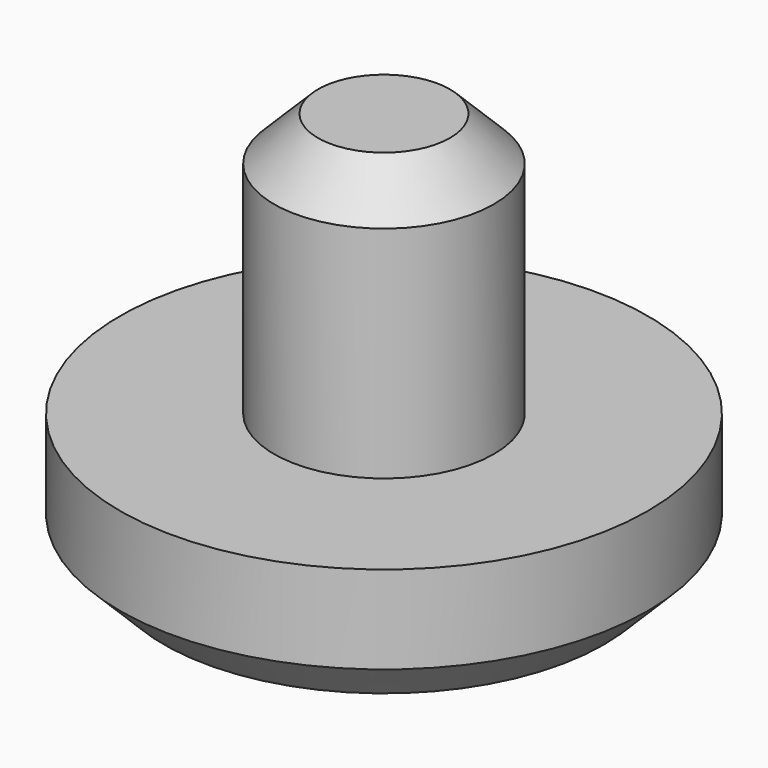
from build123d import *

# Parameters (mm, degrees)
F0_R     = 6
F0_R_2   = 2.5
F1_DEPTH = 3
F2_DEPTH = 6
F3_SIZE  = 1


with BuildPart() as f1:
    # F0 (on Top) → F1 (new body)
    with BuildSketch(Plane.XY):
        Circle(F0_R)
        Circle(F0_R_2, mode=Mode.SUBTRACT)
        Circle(F0_R_2)
    extrude(amount=-F1_DEPTH)

    # F0 (on Top) → F2 (join)
    with BuildSketch(Plane.XY):
        Circle(F0_R_2)
    extrude(amount=F2_DEPTH)

    # F3
    f3_edges = [f1.edges().sort_by_distance(p)[0] for p in [
        (-2.5, 0, 6),
        (-6, 0, -3),
    ]]
    chamfer(f3_edges, length=F3_SIZE)


solid = f1.part
